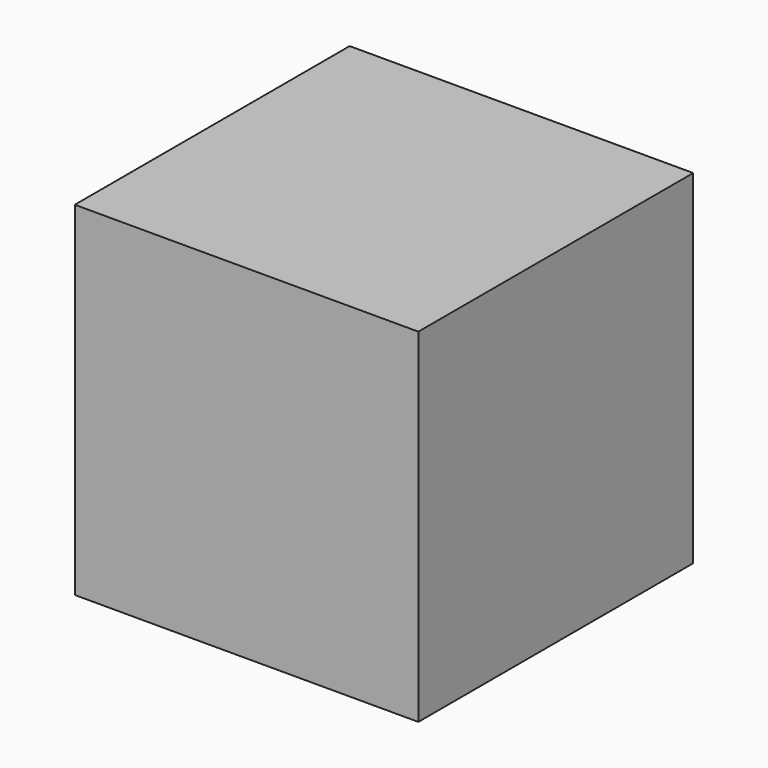
from build123d import *

# Parameters (mm, degrees)
BOX_W     = 10
BOX_H     = 10
BOX_DEPTH = 10


with BuildPart() as part:
    # Box → Box (new body)
    with BuildSketch(Plane(origin=(63.36, -90.76, 0), x_dir=(1, 0, 0), z_dir=(0, 0, 1))):
        with Locations((5, 5)):
            Rectangle(BOX_W, BOX_H)
    extrude(amount=BOX_DEPTH)


solid = part.part
